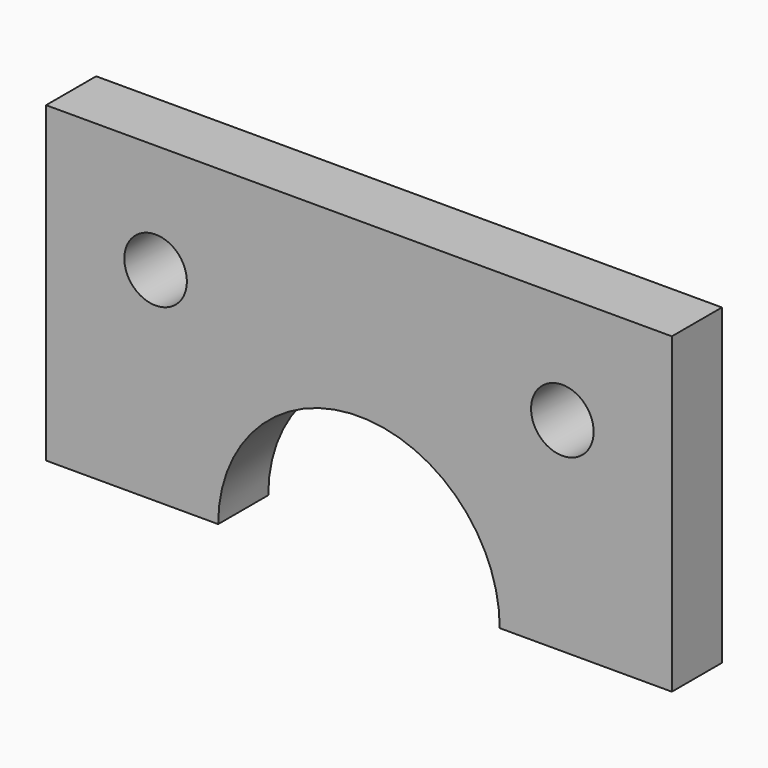
from build123d import *

# Parameters (mm, degrees)
F0_R     = 2
F1_DEPTH = 4


with BuildPart() as f1:
    # F0 (on Front) → F1 (new body)
    with BuildSketch(Plane.XZ):
        with BuildLine():
            Line((40.000001, 19.999999), (1e-06, 19.999999))
            Line((1e-06, 19.999999), (1e-06, -1e-06))
            Line((1e-06, -1e-06), (11.000003, -1e-06))
            ThreePointArc((11.000003, -1e-06), (20.000003, 8.999999), (29.000003, -1e-06))
            Line((29.000003, -1e-06), (40.000001, -1e-06))
            Line((40.000001, -1e-06), (40.000001, 19.999999))
        make_face()
        with Locations((7.000001, 12.999999)):
            Circle(F0_R, mode=Mode.SUBTRACT)
        with Locations((33.000001, 12.999999)):
            Circle(F0_R, mode=Mode.SUBTRACT)
    extrude(amount=F1_DEPTH)


solid = f1.part
